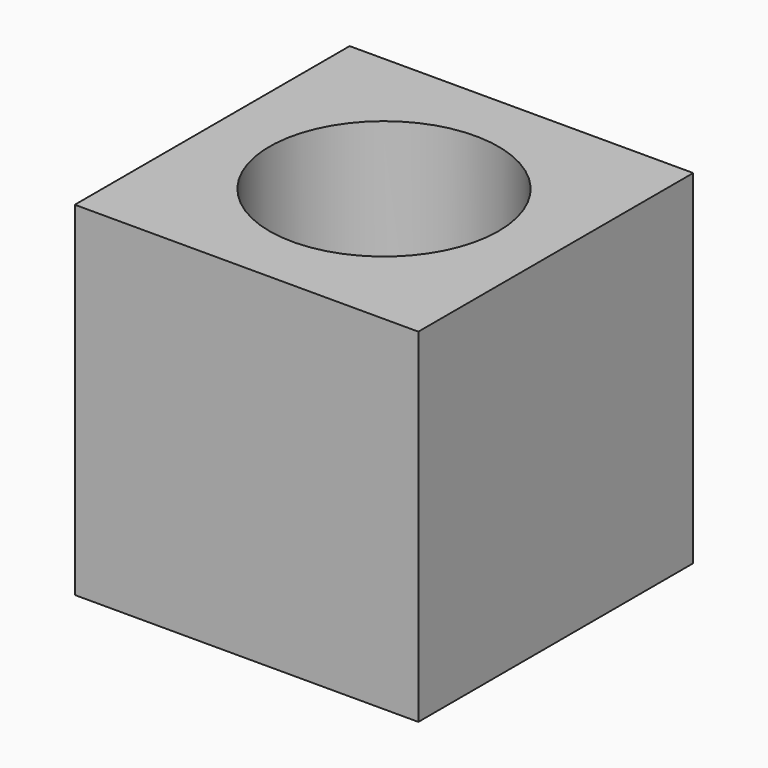
from build123d import *

# Parameters (mm, degrees)
F0_W     = 19.05
F0_H     = 19.05
F1_DEPTH = 19.05
F2_R     = 6.35
F3_DEPTH = 25.4


with BuildPart() as f1:
    # F0 (on Front) → F1 (new body)
    with BuildSketch(Plane.XZ):
        with Locations((9.525, -9.525)):
            Rectangle(F0_W, F0_H)
    extrude(amount=F1_DEPTH)

    # F2 (on face) → F3 (cut)
    with BuildSketch(Plane.XY):
        with Locations((9.525, -9.525)):
            Circle(F2_R)
    extrude(amount=-F3_DEPTH, mode=Mode.SUBTRACT)


solid = f1.part
